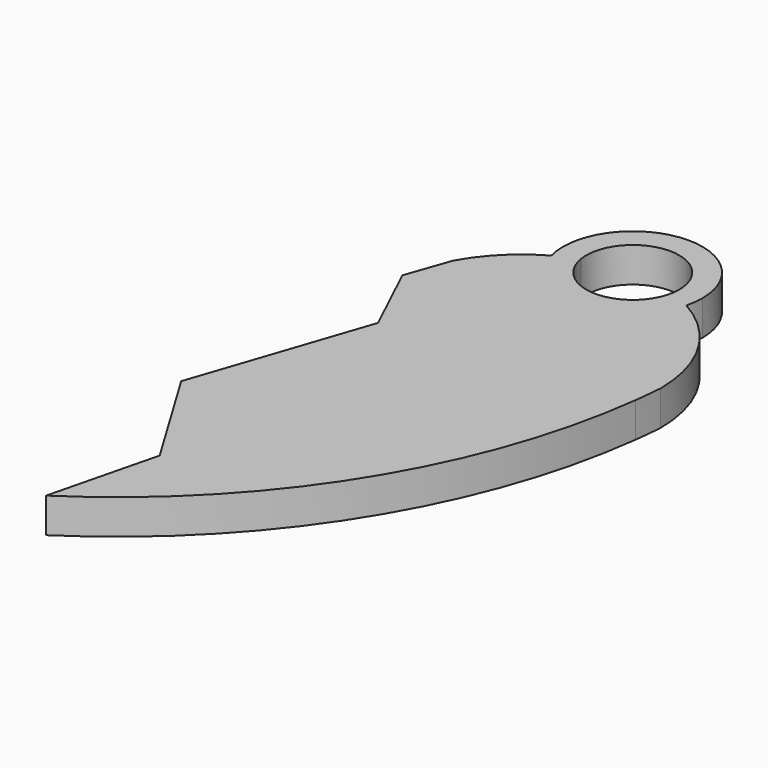
from build123d import *

# Parameters (mm, degrees)
F1_DEPTH = 3


with BuildPart() as f1:
    # F0 (on Top) → F1 (new body)
    with BuildSketch(Plane.XY):
        with BuildLine():
            ThreePointArc((22.253495394, -4.4197822265), (13.0535019754, -13.7251706879), (0.8171440868, -9.0881803987))
            Line((0.8171440868, -9.0881803987), (-3.3150132865, -21.3193659027))
            Line((-3.3150132865, -21.3193659027), (2.3193413737, -30.6764196892))
            Line((2.3193413737, -30.6764196892), (0, -40))
            ThreePointArc((0, -40), (15.0403231441, -24.6576201784), (22.253495394, -4.4197822265))
        make_face()
        with BuildLine():
            ThreePointArc((0, 3.8094750193), (1.1189500386, 1), (1.5, -2))
            ThreePointArc((1.5, -2), (1.3971044741, -3.5680896446), (1.0901824777, -5.1092877211))
            Line((1.0901824777, -5.1092877211), (1.7156613405, -6.4285693978))
            Line((1.7156613405, -6.4285693978), (0.8171440868, -9.0881803987))
            ThreePointArc((0.8171440868, -9.0881803987), (13.0535019754, -13.7251706879), (22.253495394, -4.4197822265))
            ThreePointArc((22.253495394, -4.4197822265), (22.3914639986, -3.2113902714), (22.5, -2))
            ThreePointArc((22.5, -2), (20.8371587061, 4.094518019), (16.3094750193, 8.5))
            ThreePointArc((16.3094750193, 8.5), (10.5, 4), (4.6905249807, 8.5))
            ThreePointArc((4.6905249807, 8.5), (2.0147186258, 6.4852813742), (0, 3.8094750193))
        make_face()
        with BuildLine():
            ThreePointArc((1.0901824777, -5.1092877211), (1.3971044741, -3.5680896446), (1.5, -2))
            ThreePointArc((1.5, -2), (1.1189500386, 1), (0, 3.8094750193))
            Line((0, 3.8094750193), (-1.3321595662, 0))
            Line((-1.3321595662, 0), (1.0901824777, -5.1092877211))
        make_face()
        with BuildLine():
            ThreePointArc((6.5559468113, 9.3333333333), (5.6054684353, 8.9564392374), (4.6905249807, 8.5))
            ThreePointArc((4.6905249807, 8.5), (10.5, 4), (16.3094750193, 8.5))
            ThreePointArc((16.3094750193, 8.5), (15.3945315647, 8.9564392374), (14.4440531887, 9.3333333333))
            ThreePointArc((14.4440531887, 9.3333333333), (10.5, 6), (6.5559468113, 9.3333333333))
        make_face()
        with BuildLine():
            ThreePointArc((16.5, 10), (9.7439742451, 15.9521781776), (4.6905249807, 8.5))
            ThreePointArc((4.6905249807, 8.5), (5.6054684353, 8.9564392374), (6.5559468113, 9.3333333333))
            ThreePointArc((6.5559468113, 9.3333333333), (10.1654949589, 13.9859887578), (14.5, 10))
            ThreePointArc((14.5, 10), (14.4859887578, 9.6654949589), (14.4440531887, 9.3333333333))
            ThreePointArc((14.4440531887, 9.3333333333), (15.3945315647, 8.9564392374), (16.3094750193, 8.5))
            ThreePointArc((16.3094750193, 8.5), (16.4521781776, 9.2439742451), (16.5, 10))
        make_face()
    extrude(amount=F1_DEPTH)


solid = f1.part
